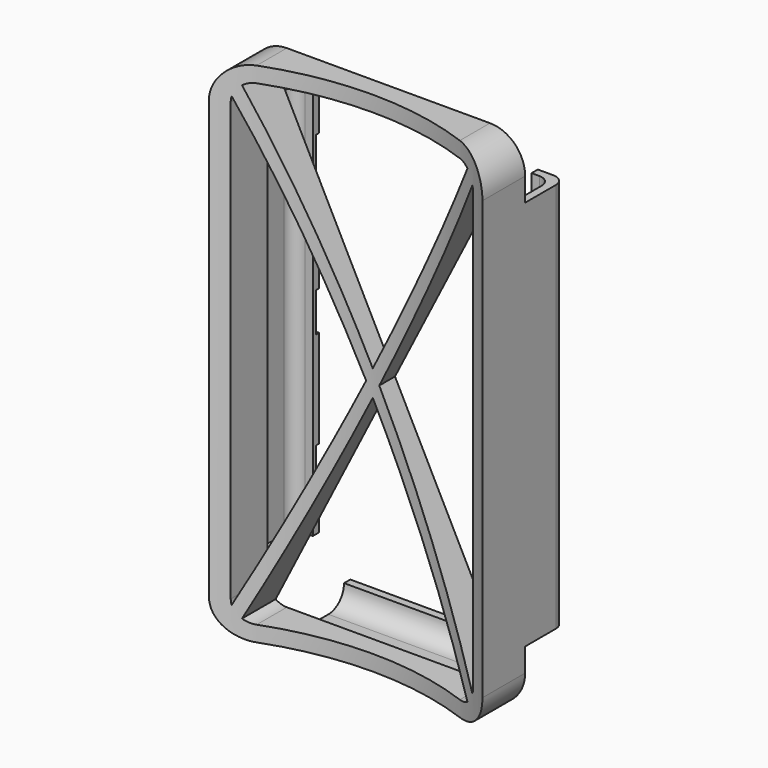
from build123d import *

# Parameters (mm, degrees)
F1_DEPTH      = 25
F2_R          = 75
F3_DEPTH      = 65.001
F3_DEPTH_BACK = 65.001
F5_DEPTH      = 50
F7_DEPTH      = 20
F8_W          = 1
F8_H          = 10
F9_DEPTH      = 35.0010001
F9_DEPTH_BACK = 35.0010001


with BuildPart() as f1:
    # F0 (on Front) → F1 (new body)
    with BuildSketch(Plane.XZ):
        with BuildLine():
            Line((26, 65), (-26, 65))
            ThreePointArc((-26, 65), (-32.3639610307, 62.3639610307), (-35, 56))
            Line((-35, 56), (-35, -56))
            ThreePointArc((-35, -56), (-32.3639610307, -62.3639610307), (-26, -65))
            Line((-26, -65), (26, -65))
            ThreePointArc((26, -65), (32.3639610307, -62.3639610307), (35, -56))
            Line((35, -56), (35, 56))
            ThreePointArc((35, 56), (32.3639610307, 62.3639610307), (26, 65))
        make_face()
        with BuildLine():
            ThreePointArc((-28.8605034902, 60.1009169441), (-27.4992356852, 60.7699363057), (-26, 61))
            Line((-26, 61), (26, 61))
            ThreePointArc((26, 61), (27.4992356852, 60.7699363057), (28.8605034902, 60.1009169441))
            Line((28.8605034902, 60.1009169441), (29.6627722225, 61.6795747722))
            ThreePointArc((29.6627722225, 61.6795747722), (31.6795747722, 62.3372277775), (32.3372277775, 60.3204252278))
            Line((32.3372277775, 60.3204252278), (30.8190334092, 57.333010503))
            ThreePointArc((30.8190334092, 57.333010503), (30.9545517984, 56.6726191174), (31, 56))
            Line((31, 56), (31, -56))
            ThreePointArc((31, -56), (30.9545517984, -56.6726191174), (30.8190334092, -57.333010503))
            Line((30.8190334092, -57.333010503), (32.3372277775, -60.3204252278))
            ThreePointArc((32.3372277775, -60.3204252278), (31.6795747722, -62.3372277775), (29.6627722225, -61.6795747722))
            Line((29.6627722225, -61.6795747722), (28.8605034902, -60.1009169441))
            ThreePointArc((28.8605034902, -60.1009169441), (27.4992356852, -60.7699363057), (26, -61))
            Line((26, -61), (-26, -61))
            ThreePointArc((-26, -61), (-27.4992356852, -60.7699363057), (-28.8605034902, -60.1009169441))
            Line((-28.8605034902, -60.1009169441), (-29.6627722225, -61.6795747722))
            ThreePointArc((-29.6627722225, -61.6795747722), (-31.6795747722, -62.3372277775), (-32.3372277775, -60.3204252278))
            Line((-32.3372277775, -60.3204252278), (-30.8190334092, -57.333010503))
            ThreePointArc((-30.8190334092, -57.333010503), (-30.9545517984, -56.6726191174), (-31, -56))
            Line((-31, -56), (-31, 56))
            ThreePointArc((-31, 56), (-30.9545517984, 56.6726191174), (-30.8190334092, 57.333010503))
            Line((-30.8190334092, 57.333010503), (-32.3372277775, 60.3204252278))
            ThreePointArc((-32.3372277775, 60.3204252278), (-31.6795747722, 62.3372277775), (-29.6627722225, 61.6795747722))
            Line((-29.6627722225, 61.6795747722), (-28.8605034902, 60.1009169441))
        make_face(mode=Mode.SUBTRACT)
        with BuildLine():
            Line((-0.8412927243, -1.6554469737), (-1.6825854486, 0))
            Line((-1.6825854486, 0), (-30.8190334092, -57.333010503))
            ThreePointArc((-30.8190334092, -57.333010503), (-30.4840056321, -58.2121694083), (-29.9902146421, -59.0130030054))
            Line((-29.9902146421, -59.0130030054), (-0.8412927243, -1.6554469737))
        make_face()
        with BuildLine():
            Line((-0.8412927243, 1.6554469737), (-29.9902146421, 59.0130030054))
            ThreePointArc((-29.9902146421, 59.0130030054), (-30.4840056321, 58.2121694083), (-30.8190334092, 57.333010503))
            Line((-30.8190334092, 57.333010503), (-1.6825854486, 0))
            Line((-1.6825854486, 0), (-0.8412927243, 1.6554469737))
        make_face()
        with BuildLine():
            ThreePointArc((30.8190334092, 57.333010503), (30.4840056321, 58.2121694083), (29.9902146421, 59.0130030054))
            Line((29.9902146421, 59.0130030054), (0.8412927243, 1.6554469737))
            Line((0.8412927243, 1.6554469737), (1.6825854486, 0))
            Line((1.6825854486, 0), (30.8190334092, 57.333010503))
        make_face()
        with BuildLine():
            Line((30.8190334092, -57.333010503), (1.6825854486, 0))
            Line((1.6825854486, 0), (0.8412927243, -1.6554469737))
            Line((0.8412927243, -1.6554469737), (29.9902146421, -59.0130030054))
            ThreePointArc((29.9902146421, -59.0130030054), (30.4840056321, -58.2121694083), (30.8190334092, -57.333010503))
        make_face()
        with BuildLine():
            Line((0, -3.3108939473), (-0.8412927243, -1.6554469737))
            Line((-0.8412927243, -1.6554469737), (-29.9902146421, -59.0130030054))
            ThreePointArc((-29.9902146421, -59.0130030054), (-29.4682811184, -59.6015310749), (-28.8605034902, -60.1009169441))
            Line((-28.8605034902, -60.1009169441), (0, -3.3108939473))
        make_face()
        with BuildLine():
            Line((0, 3.3108939473), (-28.8605034902, 60.1009169441))
            ThreePointArc((-28.8605034902, 60.1009169441), (-29.4682811184, 59.6015310749), (-29.9902146421, 59.0130030054))
            Line((-29.9902146421, 59.0130030054), (-0.8412927243, 1.6554469737))
            Line((-0.8412927243, 1.6554469737), (0, 3.3108939473))
        make_face()
        with BuildLine():
            ThreePointArc((29.9902146421, 59.0130030054), (29.4682811184, 59.6015310749), (28.8605034902, 60.1009169441))
            Line((28.8605034902, 60.1009169441), (0, 3.3108939473))
            Line((0, 3.3108939473), (0.8412927243, 1.6554469737))
            Line((0.8412927243, 1.6554469737), (29.9902146421, 59.0130030054))
        make_face()
        with BuildLine():
            Line((29.9902146421, -59.0130030054), (0.8412927243, -1.6554469737))
            Line((0.8412927243, -1.6554469737), (0, -3.3108939473))
            Line((0, -3.3108939473), (28.8605034902, -60.1009169441))
            ThreePointArc((28.8605034902, -60.1009169441), (29.4682811184, -59.6015310749), (29.9902146421, -59.0130030054))
        make_face()
        with BuildLine():
            ThreePointArc((-29.9902146421, -59.0130030054), (-30.4840056321, -58.2121694083), (-30.8190334092, -57.333010503))
            Line((-30.8190334092, -57.333010503), (-32.3372277775, -60.3204252278))
            ThreePointArc((-32.3372277775, -60.3204252278), (-31.6795747722, -62.3372277775), (-29.6627722225, -61.6795747722))
            Line((-29.6627722225, -61.6795747722), (-28.8605034902, -60.1009169441))
            ThreePointArc((-28.8605034902, -60.1009169441), (-29.4682811184, -59.6015310749), (-29.9902146421, -59.0130030054))
        make_face()
        with BuildLine():
            ThreePointArc((-29.9902146421, 59.0130030054), (-29.4682811184, 59.6015310749), (-28.8605034902, 60.1009169441))
            Line((-28.8605034902, 60.1009169441), (-29.6627722225, 61.6795747722))
            ThreePointArc((-29.6627722225, 61.6795747722), (-31.6795747722, 62.3372277775), (-32.3372277775, 60.3204252278))
            Line((-32.3372277775, 60.3204252278), (-30.8190334092, 57.333010503))
            ThreePointArc((-30.8190334092, 57.333010503), (-30.4840056321, 58.2121694083), (-29.9902146421, 59.0130030054))
        make_face()
        with BuildLine():
            Line((29.6627722225, 61.6795747722), (28.8605034902, 60.1009169441))
            ThreePointArc((28.8605034902, 60.1009169441), (29.4682811184, 59.6015310749), (29.9902146421, 59.0130030054))
            ThreePointArc((29.9902146421, 59.0130030054), (30.4840056321, 58.2121694083), (30.8190334092, 57.333010503))
            Line((30.8190334092, 57.333010503), (32.3372277775, 60.3204252278))
            ThreePointArc((32.3372277775, 60.3204252278), (31.6795747722, 62.3372277775), (29.6627722225, 61.6795747722))
        make_face()
        with BuildLine():
            Line((32.3372277775, -60.3204252278), (30.8190334092, -57.333010503))
            ThreePointArc((30.8190334092, -57.333010503), (30.4840056321, -58.2121694083), (29.9902146421, -59.0130030054))
            ThreePointArc((29.9902146421, -59.0130030054), (29.4682811184, -59.6015310749), (28.8605034902, -60.1009169441))
            Line((28.8605034902, -60.1009169441), (29.6627722225, -61.6795747722))
            ThreePointArc((29.6627722225, -61.6795747722), (31.6795747722, -62.3372277775), (32.3372277775, -60.3204252278))
        make_face()
        Polygon((0.8412927243, 1.6554469737), (0, 3.3108939473), (-0.8412927243, 1.6554469737), (0, 0), align=None)
        Polygon((0, 0), (-0.8412927243, 1.6554469737), (-1.6825854486, 0), (-0.8412927243, -1.6554469737), align=None)
        Polygon((1.6825854486, 0), (0.8412927243, 1.6554469737), (0, 0), (0.8412927243, -1.6554469737), align=None)
        Polygon((0.8412927243, -1.6554469737), (0, 0), (-0.8412927243, -1.6554469737), (0, -3.3108939473), align=None)
    extrude(amount=F1_DEPTH)

    # F2 (on Top) → F3 (cut, two sides)
    with BuildSketch(Plane.XY) as f3_sk:
        with Locations((0, -80)):
            Circle(F2_R)
    extrude(amount=-F3_DEPTH, mode=Mode.SUBTRACT)
    extrude(f3_sk.sketch, amount=F3_DEPTH_BACK, mode=Mode.SUBTRACT)

    # F4 (on Top) → F5 (join, symmetric)
    with BuildSketch(Plane.XY):
        with BuildLine():
            Line((-35, 9.8), (-35, 0))
            Line((-35, 0), (-33, 0))
            Line((-33, 0), (-33, 7.8))
            ThreePointArc((-33, 7.8), (-32.1213203436, 9.9213203436), (-30, 10.8))
            Line((-30, 10.8), (-28, 10.8))
            Line((-28, 10.8), (-28, 12.8))
            Line((-28, 12.8), (-32, 12.8))
            ThreePointArc((-32, 12.8), (-34.1213203436, 11.9213203436), (-35, 9.8))
        make_face()
        with BuildLine():
            Line((32, 12.8), (28, 12.8))
            Line((28, 12.8), (28, 10.8))
            Line((28, 10.8), (30, 10.8))
            ThreePointArc((30, 10.8), (32.1213203436, 9.9213203436), (33, 7.8))
            Line((33, 7.8), (33, 0))
            Line((33, 0), (35, 0))
            Line((35, 0), (35, 9.8))
            ThreePointArc((35, 9.8), (34.1213203436, 11.9213203436), (32, 12.8))
        make_face()
    extrude(amount=F5_DEPTH, both=True)

    # F6 (on Right) → F7 (join, symmetric)
    with BuildSketch(Plane.YZ):
        with BuildLine():
            Line((0, -63), (0, -65))
            Line((0, -65), (7.8, -65))
            ThreePointArc((7.8, -65), (11.3355339059, -63.5355339059), (12.8, -60))
            Line((12.8, -60), (12.8, -58))
            Line((12.8, -58), (10.8, -58))
            ThreePointArc((10.8, -58), (9.3355339059, -61.5355339059), (5.8, -63))
            Line((5.8, -63), (0, -63))
        make_face()
    extrude(amount=F7_DEPTH, both=True)

    # F8 (on Right) → F9 (cut, two sides)
    with BuildSketch(Plane.YZ) as f9_sk:
        with Locations((12.3, 35)):
            Rectangle(F8_W, F8_H)
        with Locations((12.3, -35)):
            Rectangle(F8_W, F8_H)
        Polygon((12.8, 5), (11.8, 5), (11.8, -5), (12.8, -5), (12.8, 0), align=None)
    extrude(amount=-F9_DEPTH, mode=Mode.SUBTRACT)
    extrude(f9_sk.sketch, amount=F9_DEPTH_BACK, mode=Mode.SUBTRACT)


solid = f1.part
